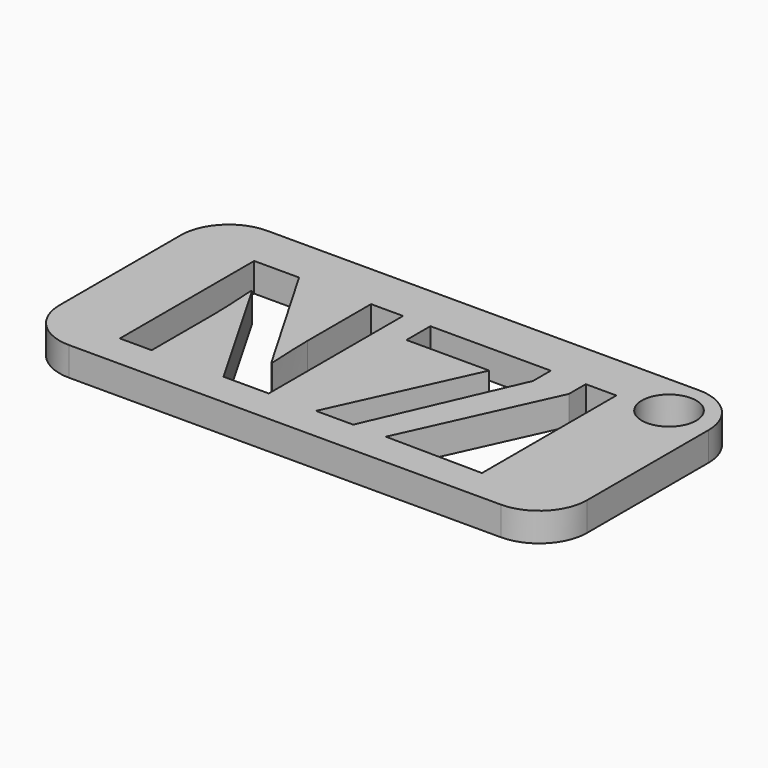
from build123d import *

# Parameters (mm, degrees)
F0_W     = 55.0028979778
F0_H     = 25.8127627894
F0_R     = 2.8370403088
F1_DEPTH = 3
F2_R     = 5


with BuildPart() as f1:
    # F0 (on Top) → F1 (new body)
    with BuildSketch(Plane.XY):
        with Locations((-11.7194391787, -5.7870582677)):
            Rectangle(F0_W, F0_H)
        with BuildLine():
            Line((-16.200212838, 2.2999899667), (-16.200212838, -15.1974810287))
            Line((-16.200212838, -15.1974810287), (-20.9144581423, -15.1974810287))
            Line((-20.9144581423, -15.1974810287), (-28.5277153843, -1.9623617991))
            Line((-28.5277153843, -1.9623617991), (-28.6349443596, -1.9623617991))
            add(Edge.make_bspline(
                [(-28.6349443596, -1.9623617991), (-28.405167984, -5.4664515257), (-28.405167984, -6.9638275728)],
                knots=[0, 0, 0, 1, 1, 1], degree=2))
            Line((-28.405167984, -6.9638275728), (-28.405167984, -15.1974810287))
            Line((-28.405167984, -15.1974810287), (-31.721607004, -15.1974810287))
            Line((-31.721607004, -15.1974810287), (-31.721607004, 2.2999899667))
            Line((-31.721607004, 2.2999899667), (-27.041828156, 2.2999899667))
            Line((-27.041828156, 2.2999899667), (-19.443889339, -10.8049226501))
            Line((-19.443889339, -10.8049226501), (-19.3596380013, -10.8049226501))
            add(Edge.make_bspline(
                [(-19.3596380013, -10.8049226501), (-19.5396294954, -7.3927434738), (-19.5396294954, -5.9834483706)],
                knots=[0, 0, 0, 1, 1, 1], degree=2))
            Line((-19.5396294954, -5.9834483706), (-19.5396294954, 2.2999899667))
            Line((-19.5396294954, 2.2999899667), (-16.200212838, 2.2999899667))
        make_face(mode=Mode.SUBTRACT)
        Polygon((-7.403607262, -15.1974810287), (-11.2829984019, -15.1974810287), (-4.7113940622, -0.8364575591), (-13.3394969628, -0.8364575591), (-13.3394969628, 2.2770123292), (-0.7860476472, 2.2770123292), (-0.7860476472, -0.0475586698), align=None, mode=Mode.SUBTRACT)
        Polygon((6.1111208051, -15.3139589772), (-4.0005319752, -15.1974810287), (2.923307009, 0), (2.923307009, 2.1986574866), (6.1111208051, 2.1986574866), align=None, mode=Mode.SUBTRACT)
        with Locations((11.1188692972, 2.7992387768)):
            Circle(F0_R, mode=Mode.SUBTRACT)
    extrude(amount=F1_DEPTH)

    # F2
    f2_edges = [f1.edges().sort_by_distance(p)[0] for p in [
        (-39.220888, 7.119323, 1.5),
        (-39.220888, -18.69344, 1.5),
        (15.78201, 7.119323, 1.5),
        (15.78201, -18.69344, 1.5),
    ]]
    fillet(f2_edges, radius=F2_R)


solid = f1.part
